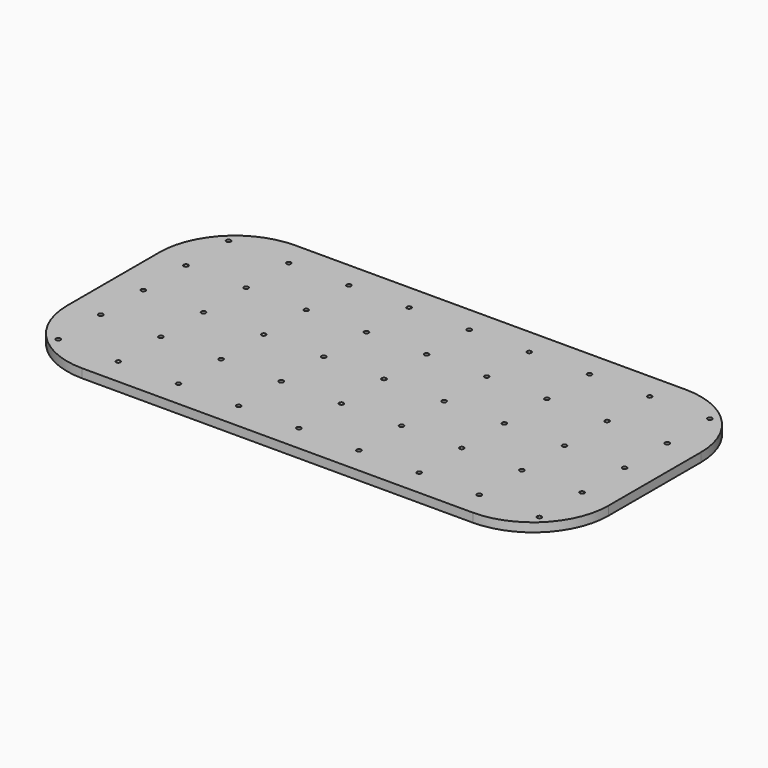
from build123d import *

# Parameters (mm, degrees)
F2_DEPTH = 1
F1_R     = 0.25
F3_DEPTH = 25


with BuildPart() as f2:
    # F0 (on Top) → F2 (new body)
    with BuildSketch(Plane.XY):
        with BuildLine():
            ThreePointArc((30.5, 6.5), (28.010408, 12.510408), (22, 15))
            Line((22, 15), (-22, 15))
            ThreePointArc((-22, 15), (-28.010408, 12.510408), (-30.5, 6.5))
            Line((-30.5, 6.5), (-30.5, -6.5))
            ThreePointArc((-30.5, -6.5), (-28.010408, -12.510408), (-22, -15))
            Line((-22, -15), (22, -15))
            ThreePointArc((22, -15), (28.010408, -12.510408), (30.5, -6.5))
            Line((30.5, -6.5), (30.5, 6.5))
        make_face()
    extrude(amount=F2_DEPTH)

    # F1 (on face) → F3 (cut)
    with BuildSketch(Plane.XY):
        with Locations((-27.111111, 12)):
            Circle(F1_R)
        with Locations((-27.111111, 6)):
            Circle(F1_R)
        with Locations((-27.111111, 0)):
            Circle(F1_R)
        with Locations((-27.111111, -6)):
            Circle(F1_R)
        with Locations((-27.111111, -12)):
            Circle(F1_R)
        with Locations((-20.333333, 12)):
            Circle(F1_R)
        with Locations((-20.333333, 6)):
            Circle(F1_R)
        with Locations((-20.333333, 0)):
            Circle(F1_R)
        with Locations((-20.333333, -6)):
            Circle(F1_R)
        with Locations((-20.333333, -12)):
            Circle(F1_R)
        with Locations((-13.555556, 12)):
            Circle(F1_R)
        with Locations((-13.555556, 6)):
            Circle(F1_R)
        with Locations((-13.555556, 0)):
            Circle(F1_R)
        with Locations((-13.555556, -6)):
            Circle(F1_R)
        with Locations((-13.555556, -12)):
            Circle(F1_R)
        with Locations((-6.777778, 12)):
            Circle(F1_R)
        with Locations((-6.777778, 6)):
            Circle(F1_R)
        with Locations((-6.777778, 0)):
            Circle(F1_R)
        with Locations((-6.777778, -6)):
            Circle(F1_R)
        with Locations((-6.777778, -12)):
            Circle(F1_R)
        with Locations((0, 12)):
            Circle(F1_R)
        with Locations((0, 6)):
            Circle(F1_R)
        with Locations((0, 0)):
            Circle(F1_R)
        with Locations((0, -6)):
            Circle(F1_R)
        with Locations((0, -12)):
            Circle(F1_R)
        with Locations((6.777778, 12)):
            Circle(F1_R)
        with Locations((6.777778, 6)):
            Circle(F1_R)
        with Locations((6.777778, 0)):
            Circle(F1_R)
        with Locations((6.777778, -6)):
            Circle(F1_R)
        with Locations((6.777778, -12)):
            Circle(F1_R)
        with Locations((13.555556, 12)):
            Circle(F1_R)
        with Locations((13.555556, 6)):
            Circle(F1_R)
        with Locations((13.555556, 0)):
            Circle(F1_R)
        with Locations((13.555556, -6)):
            Circle(F1_R)
        with Locations((13.555556, -12)):
            Circle(F1_R)
        with Locations((20.333333, 12)):
            Circle(F1_R)
        with Locations((20.333333, 6)):
            Circle(F1_R)
        with Locations((20.333333, 0)):
            Circle(F1_R)
        with Locations((20.333333, -6)):
            Circle(F1_R)
        with Locations((20.333333, -12)):
            Circle(F1_R)
        with Locations((27.111111, 12)):
            Circle(F1_R)
        with Locations((27.111111, 6)):
            Circle(F1_R)
        with Locations((27.111111, 0)):
            Circle(F1_R)
        with Locations((27.111111, -6)):
            Circle(F1_R)
        with Locations((27.111111, -12)):
            Circle(F1_R)
    extrude(amount=F3_DEPTH, mode=Mode.SUBTRACT)


solid = f2.part
